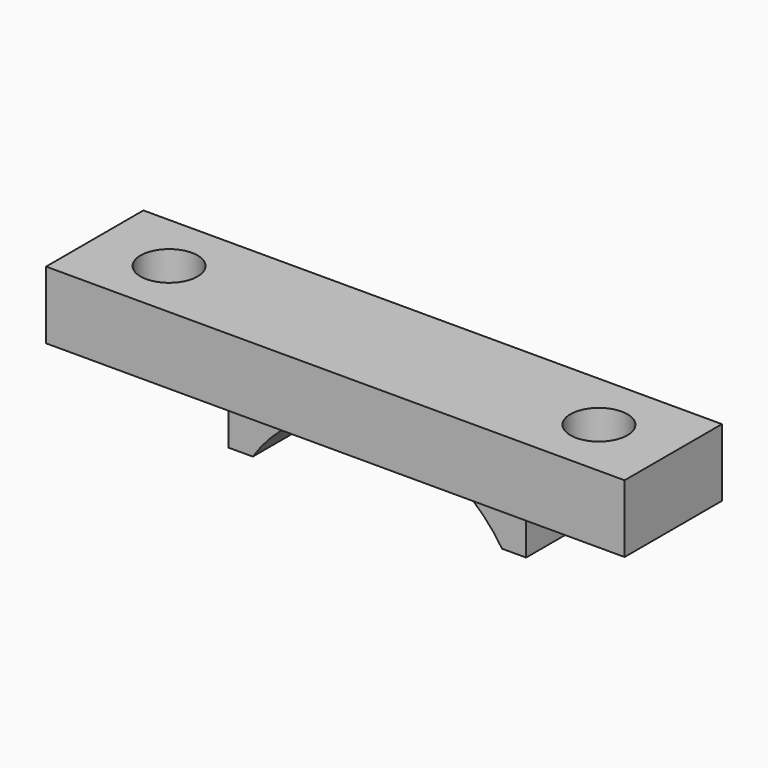
from build123d import *

# Parameters (mm, degrees)
F0_W     = 42.8
F0_H     = 9
F3_DEPTH = 5
F1_R     = 2.11
F4_DEPTH = 7
F2_W     = 22
F2_H     = 5.107859
F5_DEPTH = 5
F7_DEPTH = 7.1


with BuildPart() as f3:
    # F0 (on Top) → F3 (new body)
    with BuildSketch(Plane.XY):
        Rectangle(F0_W, F0_H)
    extrude(amount=F3_DEPTH)

    # F1 (on face) → F4 (cut)
    with BuildSketch(Plane.XY):
        with Locations((-15.9, 0)):
            Circle(F1_R)
        with Locations((15.9, 0)):
            Circle(F1_R)
    extrude(amount=F4_DEPTH, mode=Mode.SUBTRACT)

    # F2 (on face) → F5 (join)
    with BuildSketch(Plane.XY):
        with Locations((0, 1.946071)):
            Rectangle(F2_W, F2_H)
    extrude(amount=-F5_DEPTH)

    # F6 (on face) → F7 (cut)
    with BuildSketch(Plane.XZ.offset(0.607859)):
        with BuildLine():
            Line((-9.219544, -5), (9.219544, -5))
            ThreePointArc((9.219544, -5), (5.244044, -1.33046), (0, 0))
            ThreePointArc((0, 0), (-5.244044, -1.33046), (-9.219544, -5))
        make_face()
    extrude(amount=-F7_DEPTH, mode=Mode.SUBTRACT)


solid = f3.part
